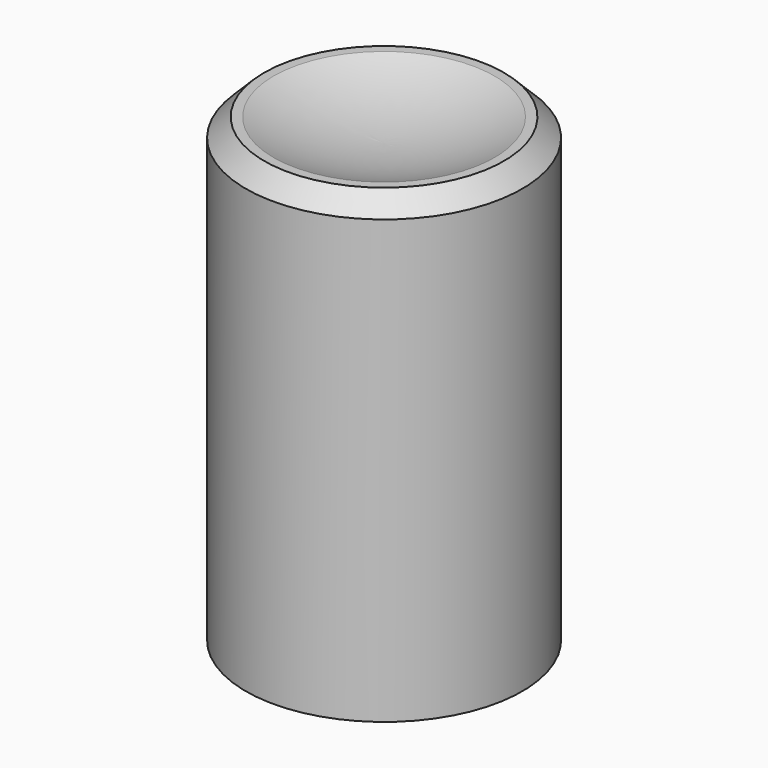
from build123d import *

# Parameters (mm, degrees)
F2_SIZE = 5.08


with BuildPart() as f1:
    # F0 (on Front) → F1 (revolve)
    with BuildSketch(Plane.XZ):
        with BuildLine():
            ThreePointArc((0, 57.15), (-15.55426, 58.75439), (-30.45353, 63.5))
            Line((-30.45353, 63.5), (-38.1, 63.5))
            Line((-38.1, 63.5), (-38.1, -63.5))
            Line((-38.1, -63.5), (0, -63.5))
            Line((0, -63.5), (0, 57.15))
        make_face()
    revolve(axis=Axis((0, 0, 0), (0, 0, -1)))

    # F2
    f2_edges = [f1.edges().sort_by_distance(p)[0] for p in [
        (38.1, 0, 63.5),
    ]]
    chamfer(f2_edges, length=F2_SIZE)

    # F3 (on Right) → F4 (revolve, cut)
    with BuildSketch(Plane.YZ):
        with BuildLine():
            ThreePointArc((0, -38.1), (-9.525, -42.39974), (-12.600391, -52.3875))
            ThreePointArc((-12.600391, -52.3875), (-50.401562, -107.95), (0, -152.4))
            Line((0, -152.4), (0, -38.1))
        make_face()
    revolve(axis=Axis((0, 0, -95.25), (0, 0, -1)), mode=Mode.SUBTRACT)


solid = f1.part
